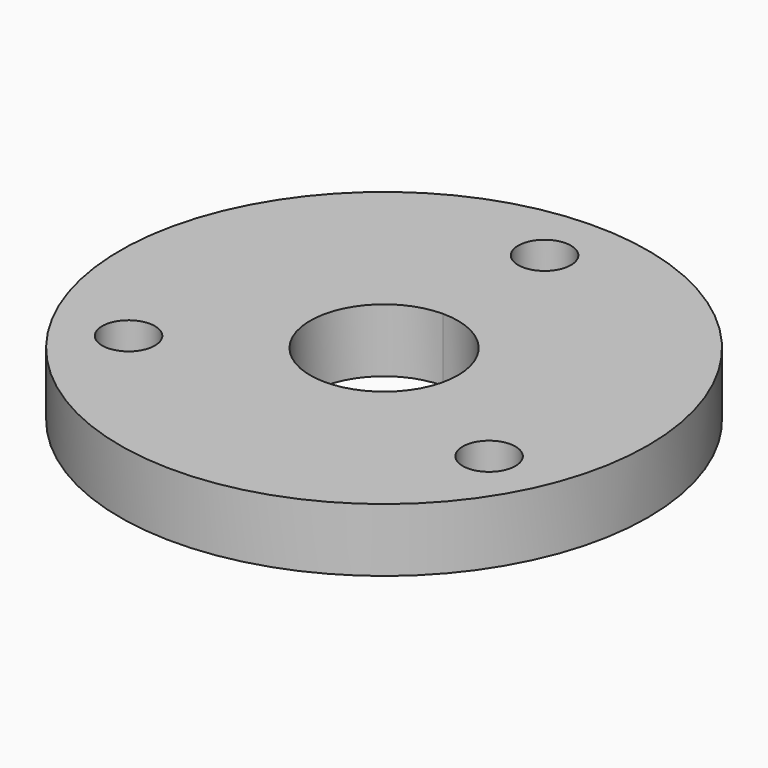
from build123d import *

# Parameters (mm, degrees)
F0_R     = 25
F0_R_2   = 2.5
F1_DEPTH = 6


with BuildPart() as f1:
    # F0 (on Top) → F1 (new body)
    with BuildSketch(Plane.XY):
        Circle(F0_R)
        with Locations((-15.974261, -10.287031)):
            Circle(F0_R_2, mode=Mode.SUBTRACT)
        with Locations((16.89596, -8.6906)):
            Circle(F0_R_2, mode=Mode.SUBTRACT)
        with BuildLine():
            ThreePointArc((0, 7), (4.949747, 4.949747), (7, 0))
            ThreePointArc((7, 0), (-4.949747, -4.949747), (0, 7))
        make_face(mode=Mode.SUBTRACT)
        with BuildLine():
            ThreePointArc((2.5, 19), (1.767767, 17.232233), (0, 16.5))
            ThreePointArc((0, 16.5), (-1.767767, 20.767767), (2.5, 19))
        make_face(mode=Mode.SUBTRACT)
    extrude(amount=F1_DEPTH)


solid = f1.part
